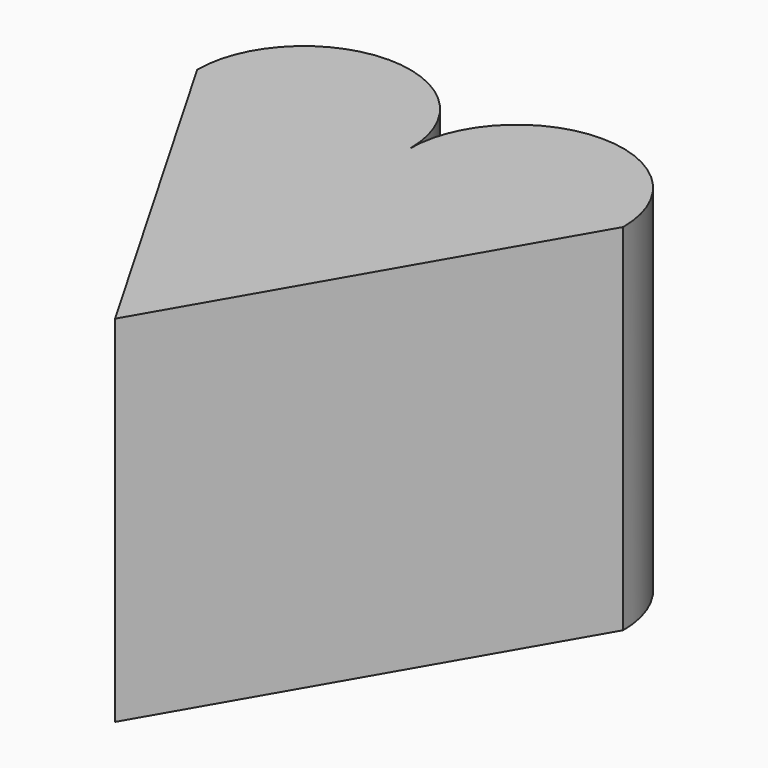
from build123d import *

# Parameters (mm, degrees)
F1_DEPTH = 25


with BuildPart() as f1:
    # F0 (on Top) → F1 (new body)
    with BuildSketch(Plane.XY):
        Polygon((0, 25.980762), (-15, 25.980762), (0, 0), (15, 25.980762), align=None)
        with BuildLine():
            ThreePointArc((0, 25.980762), (-7.5, 33.480762), (-15, 25.980762))
            Line((-15, 25.980762), (0, 25.980762))
        make_face()
        with BuildLine():
            ThreePointArc((15, 25.980762), (7.5, 33.480762), (0, 25.980762))
            Line((0, 25.980762), (15, 25.980762))
        make_face()
    extrude(amount=F1_DEPTH)


solid = f1.part
